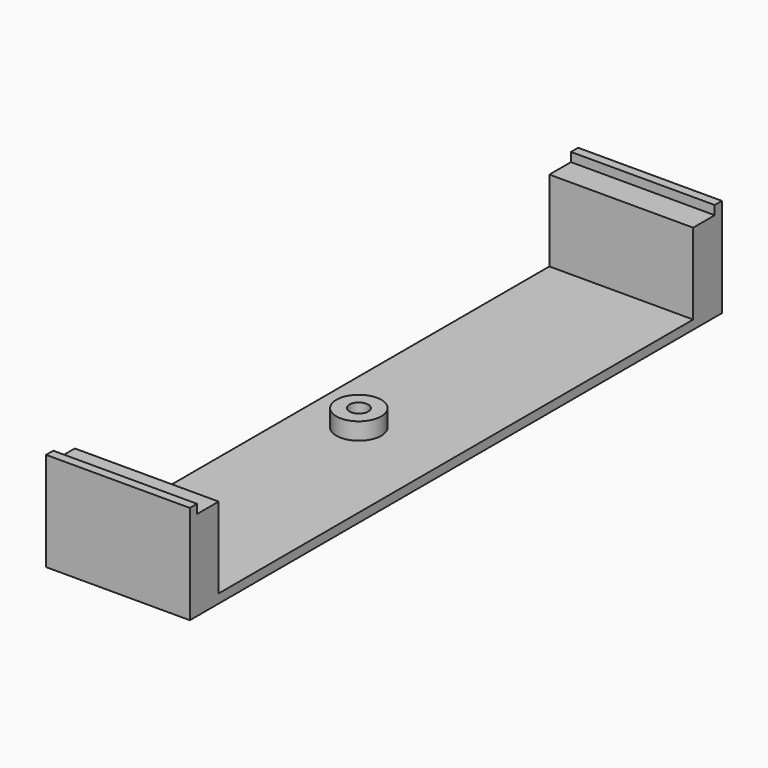
from build123d import *

# Parameters (mm, degrees)
SKETCH019_W             = 74
SKETCH019_H             = 16
PAD013_DEPTH            = 1
SKETCH003_W             = 1
SKETCH003_H             = 16
PAD002_DEPTH            = 10
PAD002_FACE6_W          = 16
PAD002_FACE6_H          = 72
PAD012_DEPTH            = 9
SKETCH021_W             = 66
SKETCH021_H             = 16
POCKET008_DEPTH         = 9
SKETCH023_R             = 2.5
PAD010_DEPTH            = 1.9
SKETCH024_R             = 1.05
POCKET007_DEPTH         = 5
BODY005_PLACEMENT_ANGLE = 90


with BuildPart() as part:
    # Sketch019 → Pad013 (new body)
    with BuildSketch(Plane.XY):
        with Locations((35, 7)):
            Rectangle(SKETCH019_W, SKETCH019_H)
    extrude(amount=PAD013_DEPTH)

    # Sketch003 (on Face6 of Pad013) → Pad002 (join)
    with BuildSketch(Plane.XY.offset(1)):
        with Locations((-1.5, 7)):
            Rectangle(SKETCH003_W, SKETCH003_H)
        with Locations((71.5, 7)):
            Rectangle(SKETCH003_W, SKETCH003_H)
    extrude(amount=PAD002_DEPTH)

    # Pad002 Face6 → Pad012 (add)
    with BuildSketch(Plane(origin=(35, 7, 1), x_dir=(0, 1, 0), z_dir=(0, 0, 1))):
        Rectangle(PAD002_FACE6_W, PAD002_FACE6_H)
    extrude(amount=PAD012_DEPTH)

    # Sketch021 (on Face13 of Pad012) → Pocket008 (cut)
    with BuildSketch(Plane.XY.offset(10)):
        with Locations((35, 7)):
            Rectangle(SKETCH021_W, SKETCH021_H)
    extrude(amount=-POCKET008_DEPTH, mode=Mode.SUBTRACT)

    # Sketch023 (on Face7 of Pocket008) → Pad010 (join)
    with BuildSketch(Plane.XY.offset(1)):
        with Locations((34, 9)):
            Circle(SKETCH023_R)
    extrude(amount=PAD010_DEPTH)

    # Sketch024 (on Face26 of Pad010) → Pocket007 (cut)
    with BuildSketch(Plane.XY.offset(2.9)):
        with Locations((34, 9)):
            Circle(SKETCH024_R)
    extrude(amount=-POCKET007_DEPTH, mode=Mode.SUBTRACT)


with BuildPart() as part_1:
    # Body005 placement: moved
    add(part.part.moved(Location((97, 2, -10))).rotate(Axis((97, 2, -10), (0, 0, 1)), BODY005_PLACEMENT_ANGLE))


solid = part_1.part
